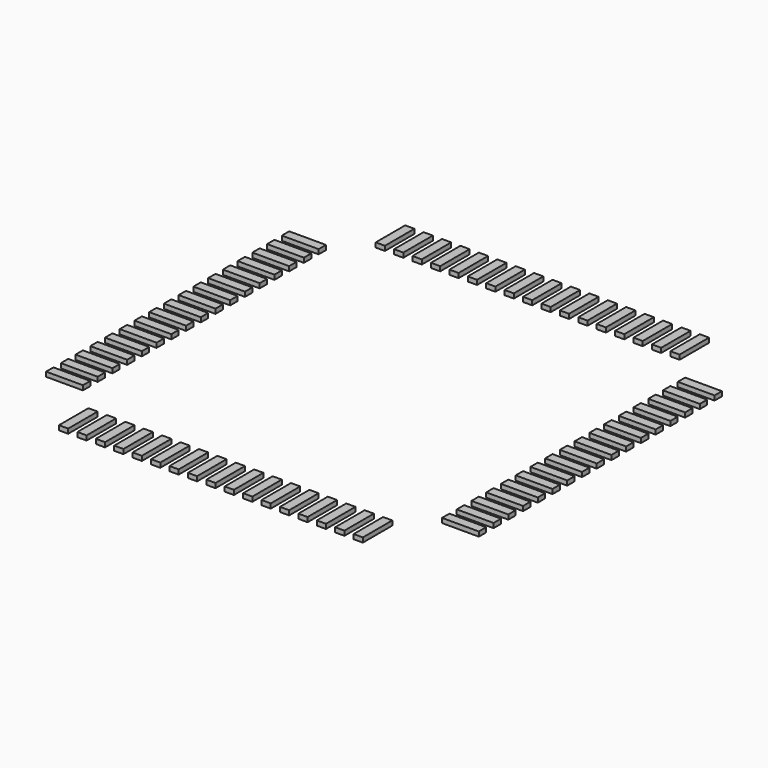
from build123d import *

# Parameters (mm, degrees)
BOX035_W                = 0.2
BOX035_H                = 0.8
BOX035_DEPTH            = 0.1
ARRAY013_X_COUNT        = 17
ARRAY013_X_PITCH        = 0.4
ARRAY013_Y_COUNT        = 2
ARRAY013_Y_PITCH        = 8.6
LINK001_PLACEMENT_ANGLE = 90


with BuildPart() as array013:
    # Box035 → Box035 (new body)
    with BuildSketch(Plane(origin=(-3.3, 3.9, 0), x_dir=(1, 0, 0), z_dir=(0, 0, 1))):
        with Locations((0.1, 0.4)):
            Rectangle(BOX035_W, BOX035_H)
    extrude(amount=BOX035_DEPTH)

    # Array013 X: Array013 ×17


with BuildPart() as array013_1:
    add(array013.part)
    with Locations(*[(i * ARRAY013_X_PITCH, 0, 0) for i in range(1, ARRAY013_X_COUNT)]):
        add(array013.part)

    # Array013 Y: Array013 ×2


with BuildPart() as array013_2:
    add(array013_1.part)
    with Locations(*[(0, -i * ARRAY013_Y_PITCH, 0) for i in range(1, ARRAY013_Y_COUNT)]):
        add(array013_1.part)


with BuildPart() as array019:
    # Link001 base: copy of Array013
    add(array013_2.part)


with BuildPart() as array019_1:
    # Link001 placement: moved
    add(array019.part.rotate(Axis((0, 0, 0), (0, 0, 1)), LINK001_PLACEMENT_ANGLE))


with BuildPart() as pins004:
    # Fusion023 base: copy of Array013
    add(array013_2.part)

    # Fusion023: union Array019
    add(array019_1.part)


solid = pins004.part
